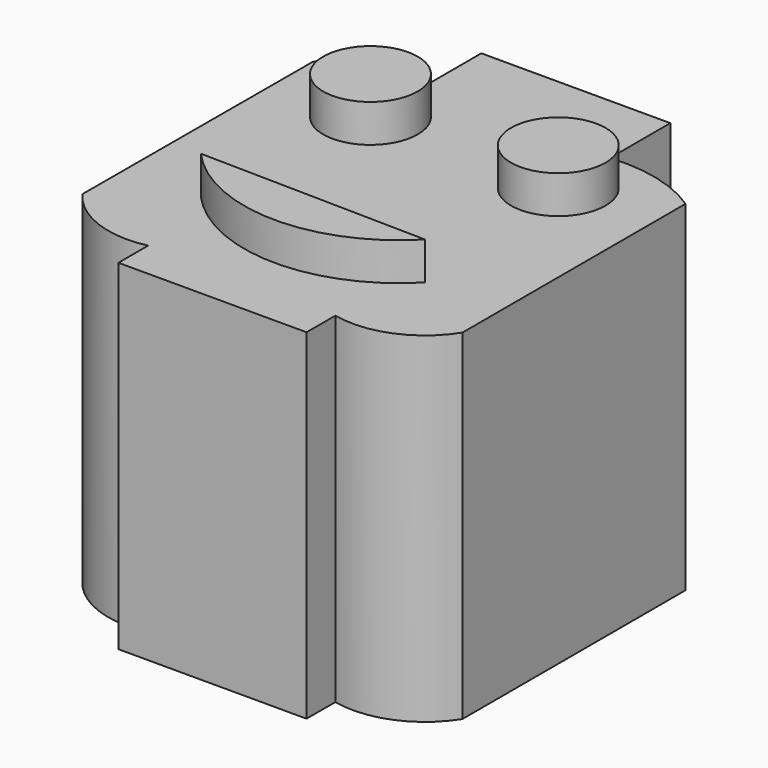
from build123d import *

# Parameters (mm, degrees)
F1_DEPTH = 9
F2_R     = 1.25
F3_DEPTH = 1
F4_R     = 0.625
F5_R     = 0.625
F6_DEPTH = 1


with BuildPart() as f1:
    # F0 (on Top) → F1 (new body)
    with BuildSketch(Plane.XY):
        with BuildLine():
            Line((-24.9881935865, -2), (-29.9881935865, -2))
            add(Edge.make_bspline(
                [(-29.9881935865, -2), (-30.1957792579, -1.9806863621), (-30.8858297438, -1.9886899929), (-30.9737131442, -1.9691203625), (-32.3240056363, -2.0563246792), (-32.4695344233, -2.4918309621)],
                knots=[0, 0, 0, 0, 0.3435850183, 0.5315375028, 0.9674384772, 0.9674384772, 0.9674384772, 0.9674384772], degree=3))
            Line((-32.4695344233, -2.4918309621), (-32.4881935865, -10.0656754612))
            ThreePointArc((-32.4881935865, -10.0656754612), (-31.3797872361, -10.9135774988), (-29.9881935865, -11.0183134402))
            Line((-29.9881935865, -11.0183134402), (-25.0104854877, -11.0483904604))
            ThreePointArc((-25.0104854877, -11.0483904604), (-23.5833955913, -10.9234349089), (-22.4881935865, -10))
            Line((-22.4881935865, -10), (-22.4881935865, -2.6204695865))
            ThreePointArc((-22.4881935865, -2.6204695865), (-23.6846353493, -2.0944376038), (-24.9881935865, -2))
        make_face()
        Polygon((-27.4881935865, 0), (-29.9881935865, 0), (-29.9881935865, -2), (-24.9881935865, -2), (-24.9881935865, 0), align=None)
        Polygon((-25.0104854877, -11.0483904604), (-29.9881935865, -11.0183134402), (-29.9881935865, -12), (-27.4881935865, -12), (-25.0128299031, -12), align=None)
    extrude(amount=F1_DEPTH)

    # F2 (on face) → F3 (join)
    with BuildSketch(Plane.XY.offset(9)):
        with Locations((-29.9974028021, -3.6542222369)):
            Circle(F2_R)
        with Locations((-24.9764043838, -3.7198562641)):
            Circle(F2_R)
        with BuildLine():
            Line((-24.4942996651, -8.7319174781), (-30.507825315, -8.6252950132))
            ThreePointArc((-30.507825315, -8.6252950132), (-27.5242896541, -9.9886223537), (-24.4942996651, -8.7319174781))
        make_face()
    extrude(amount=F3_DEPTH)

    # F4 (on face) + F5 (on face) → F6 (cut)
    with BuildSketch(Plane.XY.offset(10)):
        with Locations((-29.9974028021, -3.6542222369)):
            Circle(F4_R)
    with BuildSketch(Plane.XY.offset(10)):
        with Locations((-24.9764043838, -3.7198562641)):
            Circle(F5_R)
    extrude(amount=F6_DEPTH, mode=Mode.SUBTRACT)


solid = f1.part
